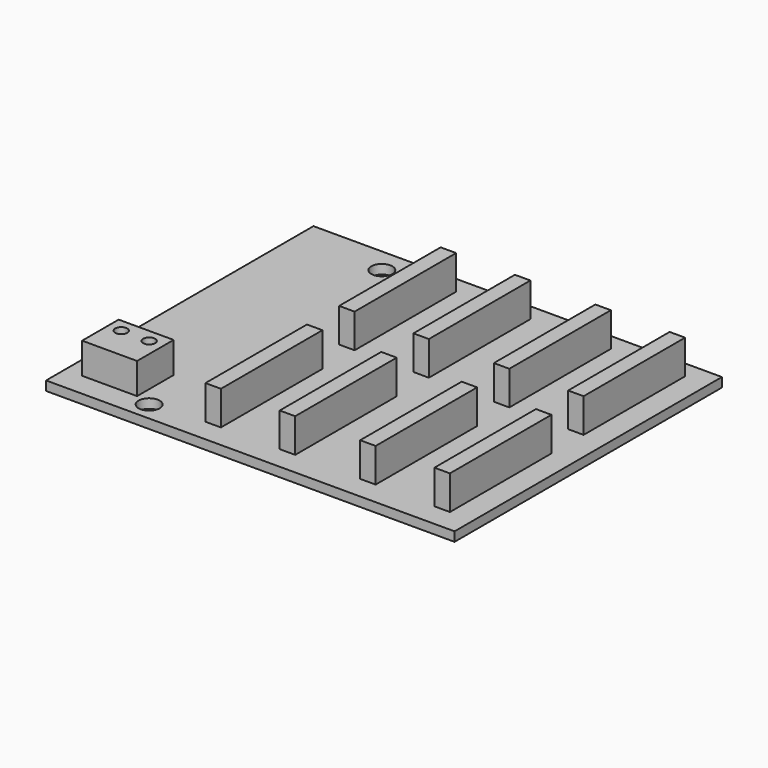
from build123d import *

# Parameters (mm, degrees)
SKETCH075_W                     = 66
SKETCH075_H                     = 54
PAD041_DEPTH                    = 1.5
SKETCH076_W                     = 2.5
SKETCH076_H                     = 20.5
PAD042_DEPTH                    = 7
SKETCH076_LINEARPATTERN002_2_W  = 2.5
SKETCH076_LINEARPATTERN002_2_H  = 20.5
PAD042_LINEARPATTERN002_2_DEPTH = 7
LINEARPATTERN003_COUNT          = 2
LINEARPATTERN003_PITCH          = 27
SKETCH077_W                     = 8.886057
SKETCH077_H                     = 7.374495
SKETCH077_R                     = 0.972187
PAD043_DEPTH                    = 5
SKETCH078_R                     = 1.7
HOLE_DEPTH                      = 25


with BuildPart() as part:
    # Sketch075 → Pad041 (new body)
    with BuildSketch(Plane.XY):
        Rectangle(SKETCH075_W, SKETCH075_H)
    extrude(amount=PAD041_DEPTH)

    # Sketch076 → Pad042 (join)
    with BuildSketch(Plane(origin=(-3, -13, 0), x_dir=(1, 0, 0), z_dir=(0, 0, 1))):
        with Locations((-6, 0)):
            Rectangle(SKETCH076_W, SKETCH076_H)
        with Locations((6, 0)):
            Rectangle(SKETCH076_W, SKETCH076_H)
    pad042 = extrude(amount=PAD042_DEPTH)

    # Sketch076 LinearPattern002 2 → Pad042 LinearPattern002 2 (add)
    with BuildSketch(Plane(origin=(22, -13, 0), x_dir=(1, 0, 0), z_dir=(0, 0, 1))):
        with Locations((-6, 0)):
            Rectangle(SKETCH076_LINEARPATTERN002_2_W, SKETCH076_LINEARPATTERN002_2_H)
        with Locations((6, 0)):
            Rectangle(SKETCH076_LINEARPATTERN002_2_W, SKETCH076_LINEARPATTERN002_2_H)
    pad042_linearpattern002_2 = extrude(amount=PAD042_LINEARPATTERN002_2_DEPTH)

    # LinearPattern003: Pad042, Pad042 LinearPattern002 2 ×2
    with Locations(*[(0, i * LINEARPATTERN003_PITCH, 0) for i in range(1, LINEARPATTERN003_COUNT)]):
        add(pad042)
        add(pad042_linearpattern002_2)

    # Sketch077 → Pad043 (join)
    with BuildSketch(Plane.XY.offset(1.5)):
        with Locations((-25.795806, -19.485859)):
            Rectangle(SKETCH077_W, SKETCH077_H)
        with Locations((-28.09366, -17.955694)):
            Circle(SKETCH077_R, mode=Mode.SUBTRACT)
        with Locations((-23.577271, -17.955694)):
            Circle(SKETCH077_R, mode=Mode.SUBTRACT)
    extrude(amount=PAD043_DEPTH)

    # Sketch078 → Hole (cut)
    with BuildSketch(Plane.XY.offset(1.5)):
        with Locations((-18.75, 23)):
            Circle(SKETCH078_R)
        with Locations((-18.75, -24)):
            Circle(SKETCH078_R)
    extrude(amount=-HOLE_DEPTH, mode=Mode.SUBTRACT)


solid = part.part
